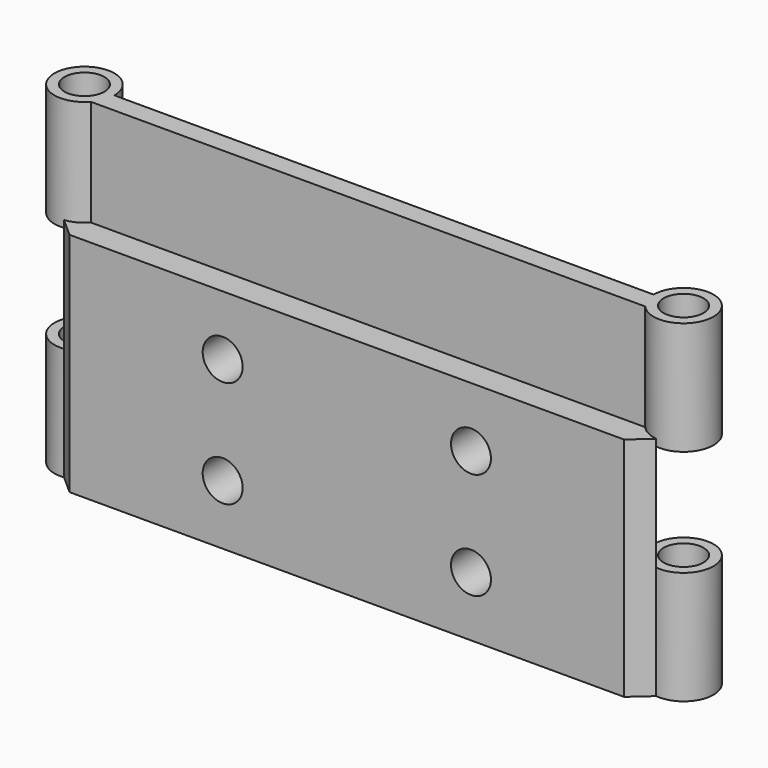
from build123d import *

# Parameters (mm, degrees)
F0_R          = 1.5
F1_DEPTH      = 25
F3_R          = 2.25
F4_DEPTH      = 4
F4_DEPTH_BACK = 4
F6_DEPTH      = 17.018
F7_R          = 1.5
F8_DEPTH      = 25.4


with BuildPart() as f1:
    # F0 (on Top) → F1 (new body)
    with BuildSketch(Plane.XY):
        with BuildLine():
            Line((22.603412069, 0), (-17.896587931, 0))
            ThreePointArc((-17.896587931, 0), (-22.2485975757, 0.8025306558), (-18.4690816674, -1.4994908255))
            Line((-18.4690816674, -1.4994908255), (23.1646932719, -1.4868519846))
            ThreePointArc((23.1646932719, -1.4868519846), (26.9584200611, 0.7946328418), (22.603412069, 0))
        make_face()
        with Locations((-20.146587931, 0)):
            Circle(F0_R, mode=Mode.SUBTRACT)
        with Locations((24.853412069, 0)):
            Circle(F0_R, mode=Mode.SUBTRACT)
    extrude(amount=F1_DEPTH)

    # F3 (on offset) → F4 (cut, two sides)
    with BuildSketch(Plane.XY.offset(12.5)) as f4_sk:
        with Locations((-20.146587931, 0)):
            Circle(F3_R)
        with Locations((24.853412069, 0)):
            Circle(F3_R)
    extrude(amount=-F4_DEPTH, mode=Mode.SUBTRACT)
    extrude(f4_sk.sketch, amount=F4_DEPTH_BACK, mode=Mode.SUBTRACT)

    # F5 (on face) → F6 (join)
    with BuildSketch(Plane(origin=(0, 0, 0), x_dir=(1, 0, 0), z_dir=(0, 0, -1))):
        with BuildLine():
            Line((24.5847299559, 2.2339001594), (23.1774195175, 3.4868482135))
            Line((23.1774195175, 3.4868482135), (-18.4684745238, 3.4994907333))
            Line((-18.4684745238, 3.4994907333), (-19.8901111496, 2.235334351))
            ThreePointArc((-19.8901111496, 2.235334351), (-19.1119676973, 1.9980142572), (-18.4690816674, 1.4994908255))
            Line((-18.4690816674, 1.4994908255), (23.1646932719, 1.4868519846))
            ThreePointArc((23.1646932719, 1.4868519846), (23.8058554716, 1.9912622066), (24.5847299559, 2.2339001594))
        make_face()
    extrude(amount=-F6_DEPTH)

    # F7 (on face) → F8 (cut)
    with BuildSketch(Plane(origin=(0.0010606447, -3.4938839029, 0), x_dir=(0.9999999539, 0.0003035718, 0), z_dir=(0.0003035718, -0.9999999539, 0))):
        with Locations((-6.9695360195, 12.518)):
            Circle(F7_R)
        with Locations((-6.9695360195, 4.5)):
            Circle(F7_R)
        with Locations((11.6763599407, 4.5)):
            Circle(F7_R)
        with Locations((11.6763599407, 12.518)):
            Circle(F7_R)
    extrude(amount=-F8_DEPTH, mode=Mode.SUBTRACT)


solid = f1.part
